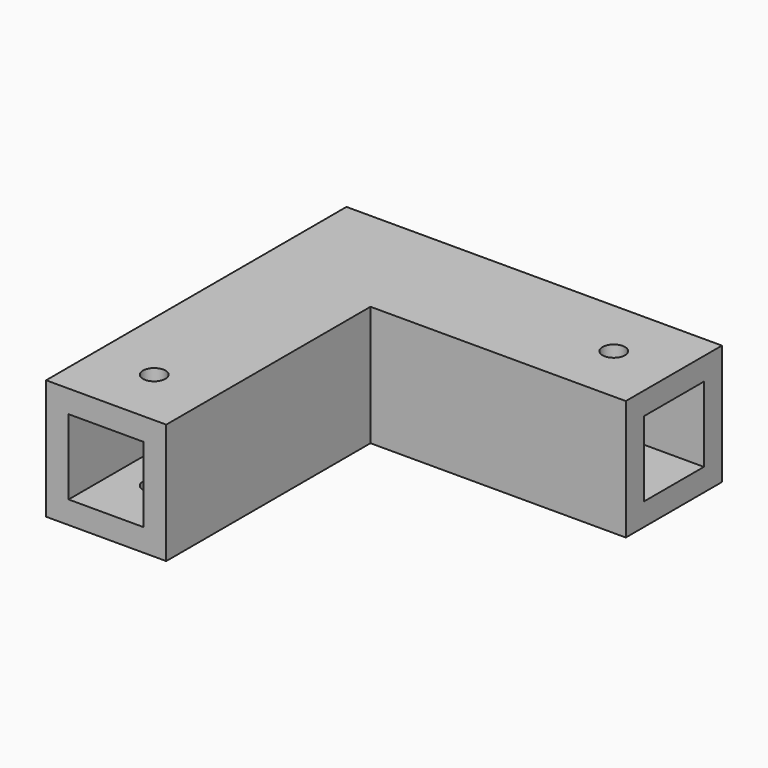
from build123d import *

# Parameters (mm, degrees)
F0_W     = 16
F0_H     = 34
F1_DEPTH = 16
F2_W     = 10
F2_H     = 10
F3_DEPTH = 30
F4_W     = 10
F4_H     = 10
F5_DEPTH = 30
F6_R     = 1.5
F7_DEPTH = 16


with BuildPart() as f1:
    # F0 (on Top) → F1 (new body)
    with BuildSketch(Plane.XY):
        Polygon((25, 16), (-25, 16), (-25, 0), (-9, 0), (25, 0), align=None)
        with Locations((-17, -17)):
            Rectangle(F0_W, F0_H)
    extrude(amount=F1_DEPTH)

    # F2 (on face) → F3 (cut)
    with BuildSketch(Plane.YZ.offset(25)):
        with Locations((8, 8)):
            Rectangle(F2_W, F2_H)
    extrude(amount=-F3_DEPTH, mode=Mode.SUBTRACT)

    # F4 (on face) → F5 (cut)
    with BuildSketch(Plane.XZ.offset(34)):
        with Locations((-17, 8)):
            Rectangle(F4_W, F4_H)
    extrude(amount=-F5_DEPTH, mode=Mode.SUBTRACT)

    # F6 (on face) → F7 (cut)
    with BuildSketch(Plane.XY.offset(16)):
        with Locations((-17, -26)):
            Circle(F6_R)
        with Locations((17, 8)):
            Circle(F6_R)
    extrude(amount=-F7_DEPTH, mode=Mode.SUBTRACT)


solid = f1.part
